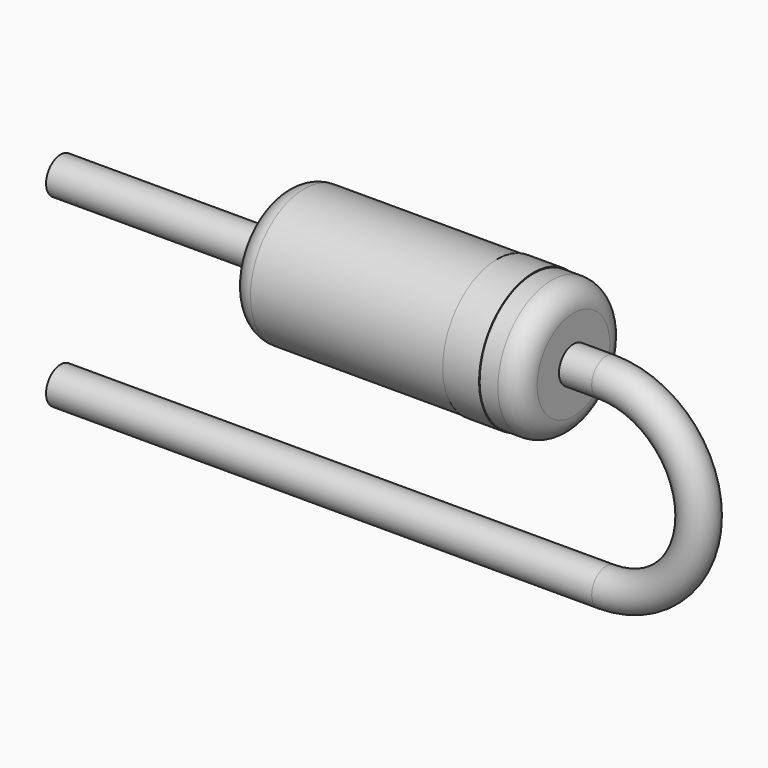
from build123d import *

# Parameters (mm, degrees)
SKETCH_R    = 0.25
SKETCH002_W = 4
SKETCH002_H = 0.925
FILLET_R    = 0.3
SKETCH003_W = 0.5
SKETCH003_H = 0.02


with BuildPart() as sweep_body:
    # Sweep: sweep along a path in Sketch001
    with BuildLine(Plane.XZ) as sweep_path:
        Line((-2.5, 0), (5, 0))
        ThreePointArc((5, 0), (6.27, 1.27), (5, 2.54))
        Line((5, 2.54), (-2.5, 2.54))
    # Sketch → Sweep (sweep)
    with BuildSketch(Plane.YZ.offset(-2.5)):
        Circle(SKETCH_R)
    sweep(path=sweep_path.line, is_frenet=True)


with BuildPart() as fillet_body:
    # Sketch002 → Revolution (revolve)
    with BuildSketch(Plane.XZ):
        with Locations((2.55, 3.0025)):
            Rectangle(SKETCH002_W, SKETCH002_H)
    revolve(axis=Axis((0.55, 0, 2.54), (1, 0, 0)))

    # Fillet
    fillet_edges = [fillet_body.edges().sort_by_distance(p)[0] for p in [
        (0.55, 0, 1.615),
        (4.55, 0, 1.615),
    ]]
    fillet(fillet_edges, radius=FILLET_R)


with BuildPart() as revolution001:
    # Sketch003 → Revolution001 (revolve)
    with BuildSketch(Plane.XZ):
        with Locations((3.75, 3.465)):
            Rectangle(SKETCH003_W, SKETCH003_H)
    revolve(axis=Axis((0, 0, 2.54), (1, 0, 0)))


solid = Compound([sweep_body.part, fillet_body.part, revolution001.part])
